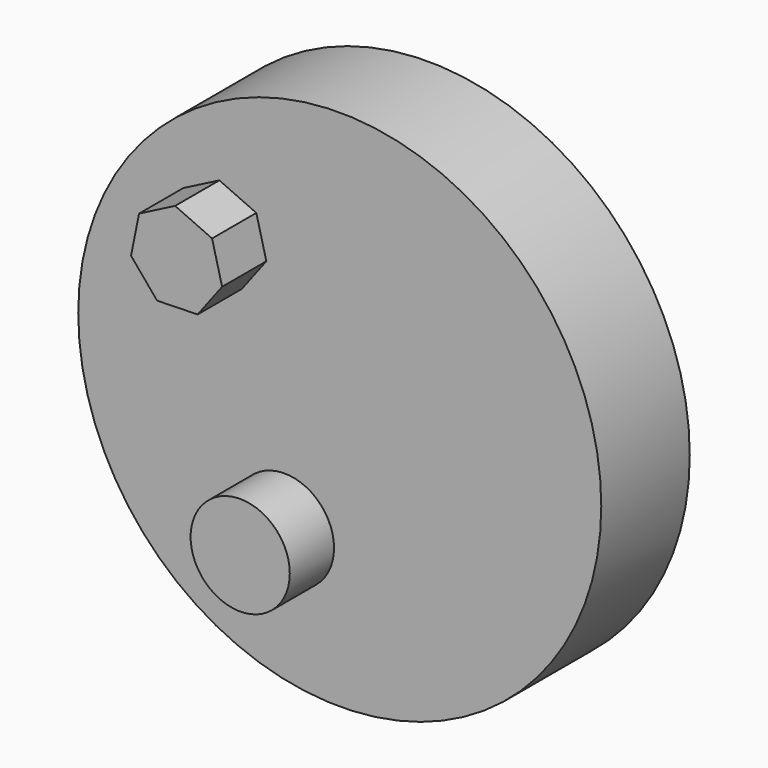
from build123d import *

# Parameters (mm, degrees)
F0_R     = 60.055036
F1_DEPTH = 25.4
F3_DEPTH = 12.7
F4_R     = 11.387781
F5_DEPTH = 12.7


with BuildPart() as f1:
    # F0 (on Front) → F1 (new body)
    with BuildSketch(Plane.XZ):
        with Locations((-50.623428, 0)):
            Circle(F0_R)
    extrude(amount=F1_DEPTH)

    # F2 (on face) → F3 (join)
    with BuildSketch(Plane.XZ.offset(25.4)):
        Polygon((-73.100491, 17.074037), (-67.482652, 24.497394), (-69.7838, 33.517985), (-78.271125, 37.343121), (-86.553497, 33.092397), (-88.394122, 23.966694), (-82.406971, 16.837853), align=None)
    extrude(amount=F3_DEPTH)

    # F4 (on face) → F5 (join)
    with BuildSketch(Plane.XZ.offset(25.4)):
        with Locations((-63.326038, -28.41799)):
            Circle(F4_R)
    extrude(amount=F5_DEPTH)


solid = f1.part
